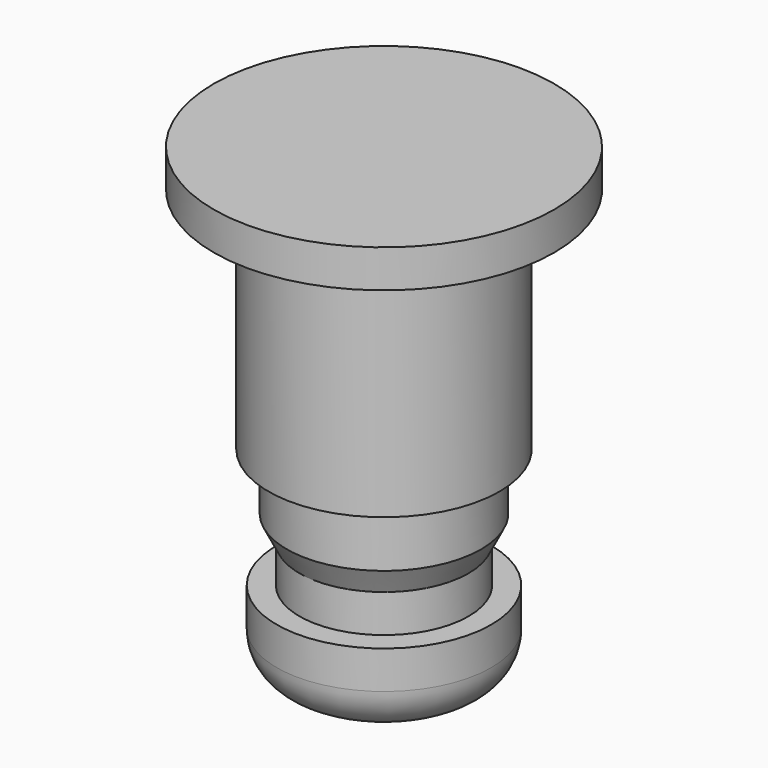
from build123d import *

# Parameters (mm, degrees)
F0_R      = 6.75
F1_DEPTH  = 1.5
F2_R      = 4.575
F3_DEPTH  = 9.05
F4_R      = 3.85
F5_DEPTH  = 3.25
F6_SIZE2  = 1
F6_SIZE   = 0.5
F7_R      = 3.35
F8_DEPTH  = 1.5
F9_R      = 4.25
F10_DEPTH = 3.25
F11_R     = 1.75


with BuildPart() as f1:
    # F0 (on Top) → F1 (new body)
    with BuildSketch(Plane.XY):
        Circle(F0_R)
    extrude(amount=F1_DEPTH)

    # F2 (on face) → F3 (join)
    with BuildSketch(Plane(origin=(0, 0, 0), x_dir=(1, 0, 0), z_dir=(0, 0, -1))):
        Circle(F2_R)
    extrude(amount=F3_DEPTH)

    # F4 (on face) → F5 (join)
    with BuildSketch(Plane(origin=(0, 0, -9.05), x_dir=(1, 0, 0), z_dir=(0, 0, -1))):
        Circle(F4_R)
    extrude(amount=F5_DEPTH)

    # F6
    f6_edges = [f1.edges().sort_by_distance(p)[0] for p in [
        (-3.85, 0, -12.3),
    ]]
    f6_side = f1.faces().sort_by_distance((0, 0, -12.3))[0]
    chamfer(f6_edges, length=F6_SIZE, length2=F6_SIZE2, reference=f6_side)

    # F7 (on face) → F8 (join)
    with BuildSketch(Plane(origin=(0, 0, -12.3), x_dir=(1, 0, 0), z_dir=(0, 0, -1))):
        Circle(F7_R)
    extrude(amount=F8_DEPTH)

    # F9 (on face) → F10 (join)
    with BuildSketch(Plane(origin=(0, 0, -13.8), x_dir=(1, 0, 0), z_dir=(0, 0, -1))):
        Circle(F9_R)
    extrude(amount=F10_DEPTH)

    # F11
    f11_edges = [f1.edges().sort_by_distance(p)[0] for p in [
        (-4.25, 0, -17.05),
    ]]
    fillet(f11_edges, radius=F11_R)


solid = f1.part
